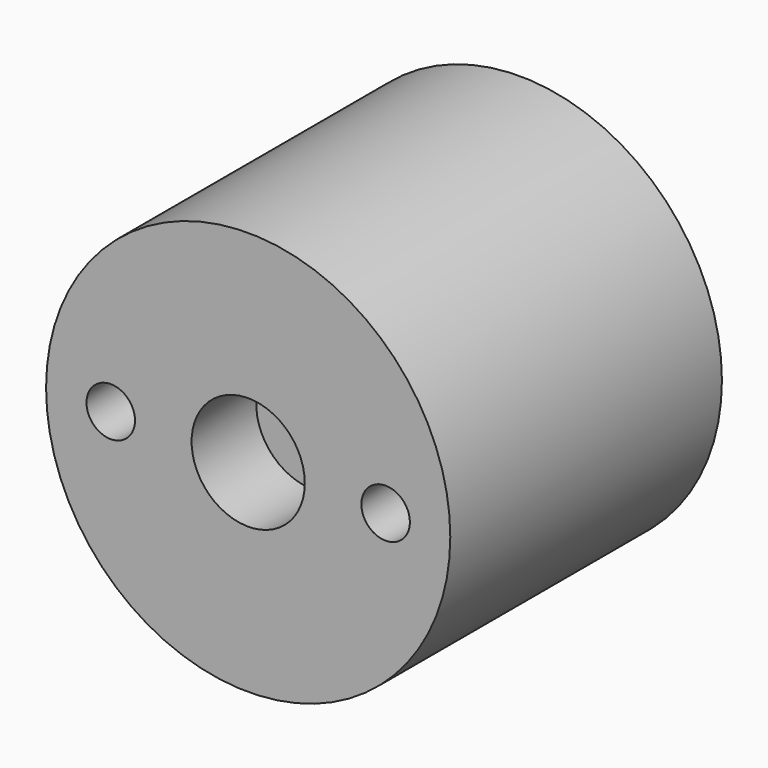
from build123d import *

# Parameters (mm, degrees)
F0_R     = 12.5
F1_DEPTH = 21
F2_R     = 1.5
F2_R_2   = 3.5
F3_DEPTH = 5


with BuildPart() as f1:
    # F0 (on Front) → F1 (new body)
    with BuildSketch(Plane.XZ):
        Circle(F0_R)
    extrude(amount=F1_DEPTH)

    # F2 (on face) → F3 (cut)
    with BuildSketch(Plane.XZ.offset(21)):
        with Locations((-8.5, 0)):
            Circle(F2_R)
        with Locations((8.5, 0)):
            Circle(F2_R)
        Circle(F2_R_2)
    extrude(amount=-F3_DEPTH, mode=Mode.SUBTRACT)


solid = f1.part
